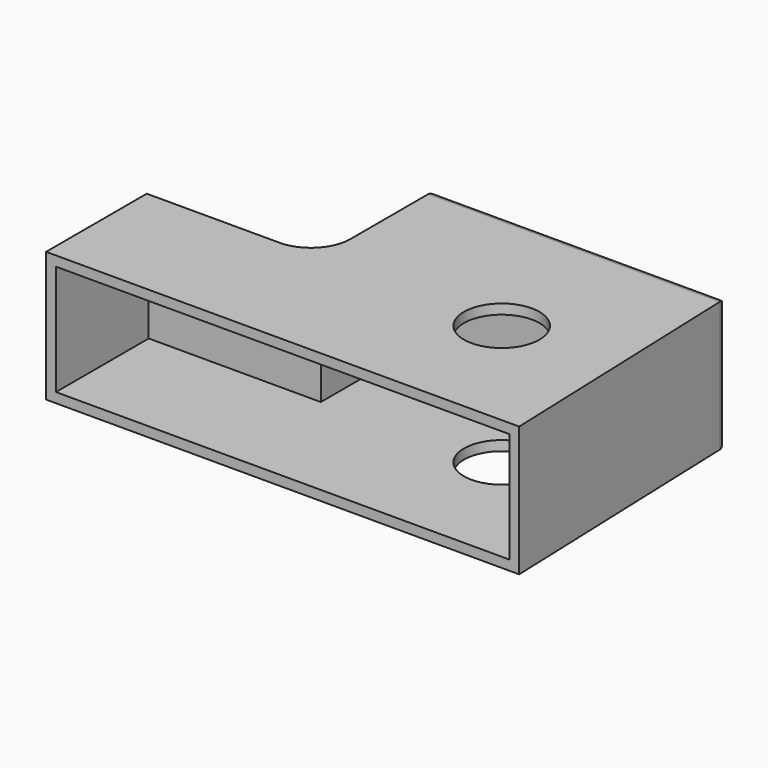
from build123d import *

# Parameters (mm, degrees)
F1_DEPTH = 33.0095589161
F3_R     = 2
F4_T     = -2.5
F5_R     = 10
F2_R     = 9.5732270721
F6_DEPTH = 66.1102235317


with BuildPart() as f1:
    # F0 (on Top) → F1 (new body)
    with BuildSketch(Plane.XY):
        Polygon((62.8429502249, -41.3544625044), (60.3725537658, 27.2316709161), (-13.5185569525, 27.2316709161), (-13.5185569525, -9.4249695539), (-57.1811795235, -9.4249695539), (-57.1811795235, -41.3544625044), align=None)
    extrude(amount=F1_DEPTH)

    # F3
    f3_edges = [f1.edges().sort_by_distance(p)[0] for p in [
        (60.372554, 27.231671, 16.504779),
        (-13.518557, 27.231671, 16.504779),
        (23.426998, 27.231671, 0),
        (23.426998, 27.231671, 33.009559),
    ]]
    fillet(f3_edges, radius=F3_R)

    # F4
    f4_openings = [f1.faces().sort_by_distance(p)[0] for p in [
        (2.830885, -41.354463, 16.504779),
    ]]
    offset(amount=F4_T, openings=f4_openings, kind=Kind.INTERSECTION)

    # F5
    f5_edges = [f1.edges().sort_by_distance(p)[0] for p in [
        (-13.518557, -9.42497, 16.504779),
    ]]
    fillet(f5_edges, radius=F5_R)

    # F2 (on face) → F6 (cut)
    with BuildSketch(Plane.XY.offset(33.0095589161)):
        with Locations((33.1206843257, -9.747531265)):
            Circle(F2_R)
    extrude(amount=-F6_DEPTH, mode=Mode.SUBTRACT)


solid = f1.part
